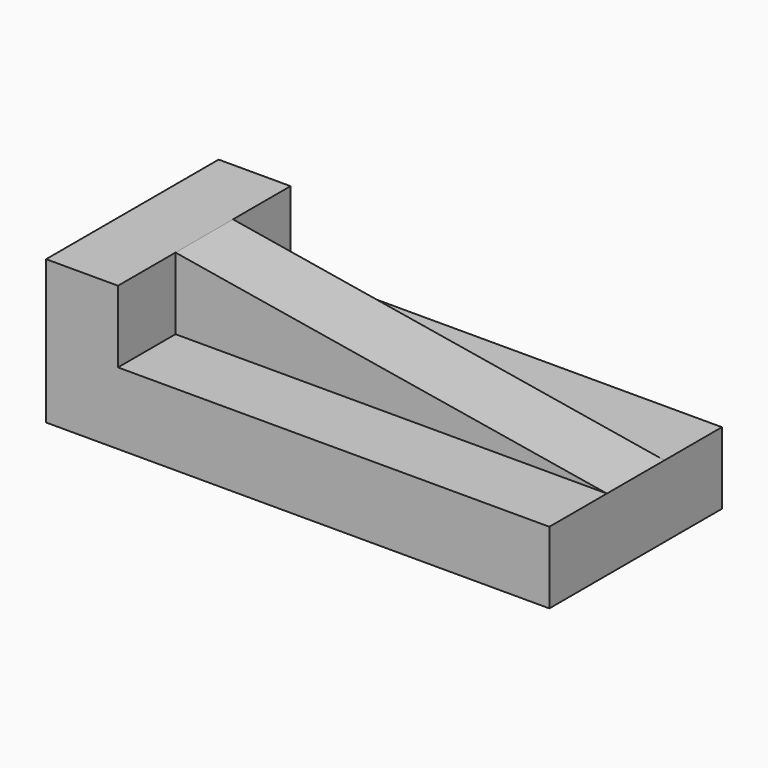
from build123d import *

# Parameters (mm, degrees)
F1_DEPTH = 76.2
F3_DEPTH = 25.4
F5_DEPTH = 25.4


with BuildPart() as f1:
    # F0 (on Front) → F1 (new body)
    with BuildSketch(Plane.XZ):
        Polygon((0, 50.8), (0, 0), (177.8, 0), (177.8, 25.4), (25.4, 25.4), (25.4, 50.8), align=None)
        Polygon((177.8, 25.4), (25.4, 50.8), (25.4, 25.4), align=None)
    extrude(amount=-F1_DEPTH)

    # F2 (on face) → F3 (cut)
    with BuildSketch(Plane.XZ):
        Polygon((177.8, 25.4), (25.4, 50.8), (25.4, 25.4), align=None)
    extrude(amount=-F3_DEPTH, mode=Mode.SUBTRACT)

    # F4 (on face) → F5 (cut)
    with BuildSketch(Plane(origin=(0, 76.2, 0), x_dir=(-1, 0, 0), z_dir=(0, 1, 0))):
        Polygon((-25.4, 25.4), (-25.4, 50.8), (-177.8, 25.4), align=None)
    extrude(amount=-F5_DEPTH, mode=Mode.SUBTRACT)


solid = f1.part
